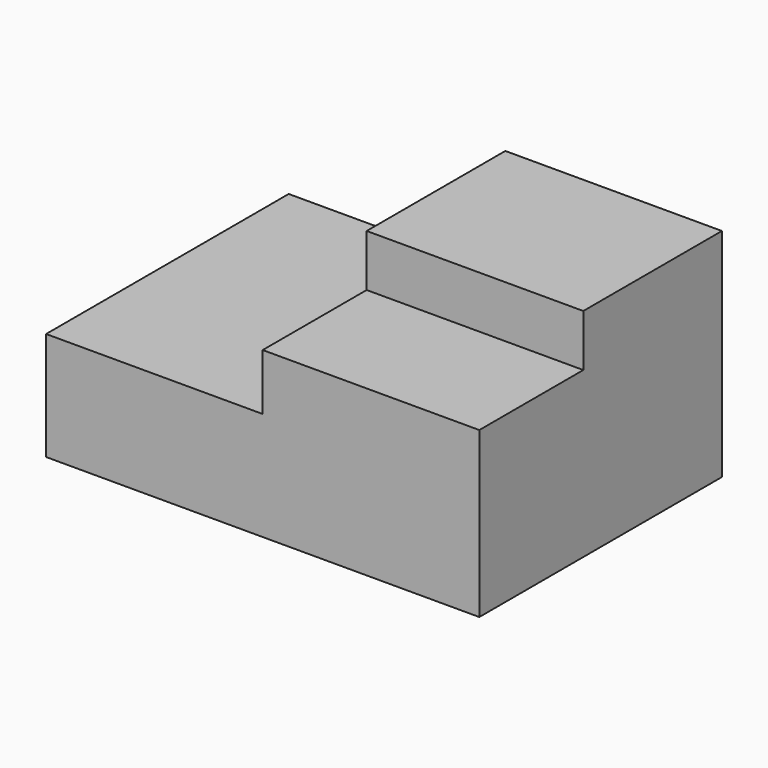
from build123d import *

# Parameters (mm, degrees)
F0_W     = 2540
F0_H     = 1778
F1_DEPTH = 1270
F2_W     = 1778
F2_H     = 635
F3_DEPTH = 1270
F4_W     = 1270
F4_H     = 762
F5_DEPTH = 304.8


with BuildPart() as f1:
    # F0 (on Top) → F1 (new body)
    with BuildSketch(Plane.XY):
        with Locations((1270, -889)):
            Rectangle(F0_W, F0_H)
    extrude(amount=F1_DEPTH)

    # F2 (on face) → F3 (cut)
    with BuildSketch(Plane(origin=(0, 0, 0), x_dir=(0, -1, 0), z_dir=(-1, 0, 0))):
        with Locations((889, 952.5)):
            Rectangle(F2_W, F2_H)
    extrude(amount=-F3_DEPTH, mode=Mode.SUBTRACT)

    # F4 (on face) → F5 (cut)
    with BuildSketch(Plane.XY.offset(1270)):
        with Locations((1905, -1397)):
            Rectangle(F4_W, F4_H)
    extrude(amount=-F5_DEPTH, mode=Mode.SUBTRACT)


solid = f1.part
